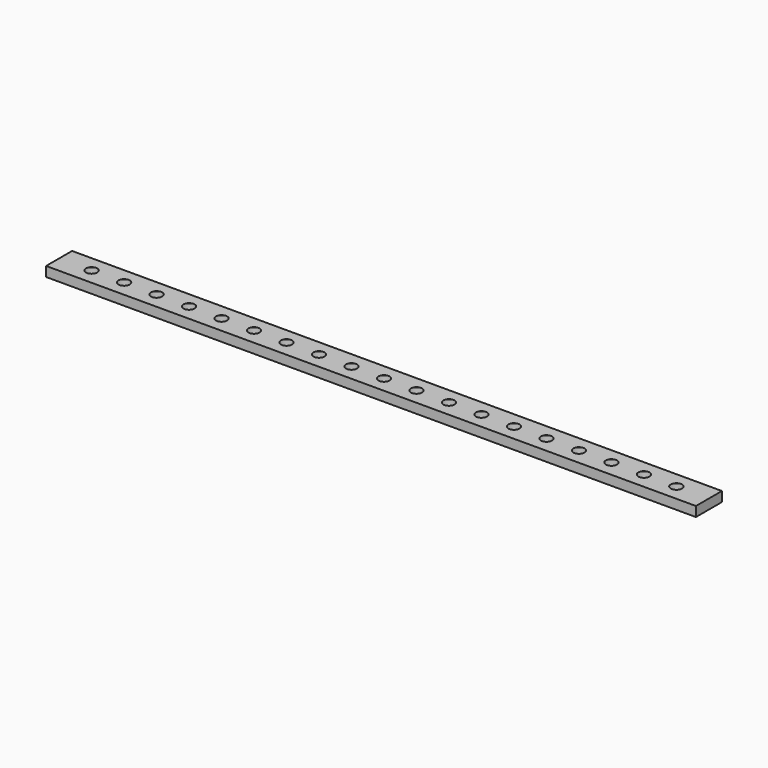
from build123d import *

# Parameters (mm, degrees)
F0_W     = 200
F0_H     = 10
F1_DEPTH = 3
F2_D     = 4.8
F2_DEPTH = 2.6
F2_TIP   = 1.4420654857


with BuildPart() as f1:
    # F0 (on Top) → F1 (new body)
    with BuildSketch(Plane.XY):
        with Locations((-0.9545272589, 0)):
            Rectangle(F0_W, F0_H)
    extrude(amount=F1_DEPTH)

    # F2
    with Locations(Plane(origin=(0, 0, 0), x_dir=(1, 0, 0), z_dir=(0, 0, -1))):
        with Locations((-90.9545272589, 0), (-80.9545272589, 0), (-70.9545272589, 0), (-60.9545272589, 0), (-50.9545272589, 0), (-40.9545272589, 0), (-30.9545272589, 0), (-20.9545272589, 0), (-10.9545272589, 0), (-0.9545272589, 0), (9.0454727411, 0), (19.0454727411, 0), (29.0454727411, 0), (39.0454727411, 0), (49.0454727411, 0), (59.0454727411, 0), (69.0454727411, 0), (79.0454727411, 0), (89.0454727411, 0)):
            Hole(F2_D / 2, depth=F2_DEPTH)
            with Locations((0, 0, -(F2_DEPTH + F2_TIP / 2))):  # 118° drill point
                Cone(0, F2_D / 2, F2_TIP, mode=Mode.SUBTRACT)


solid = f1.part
